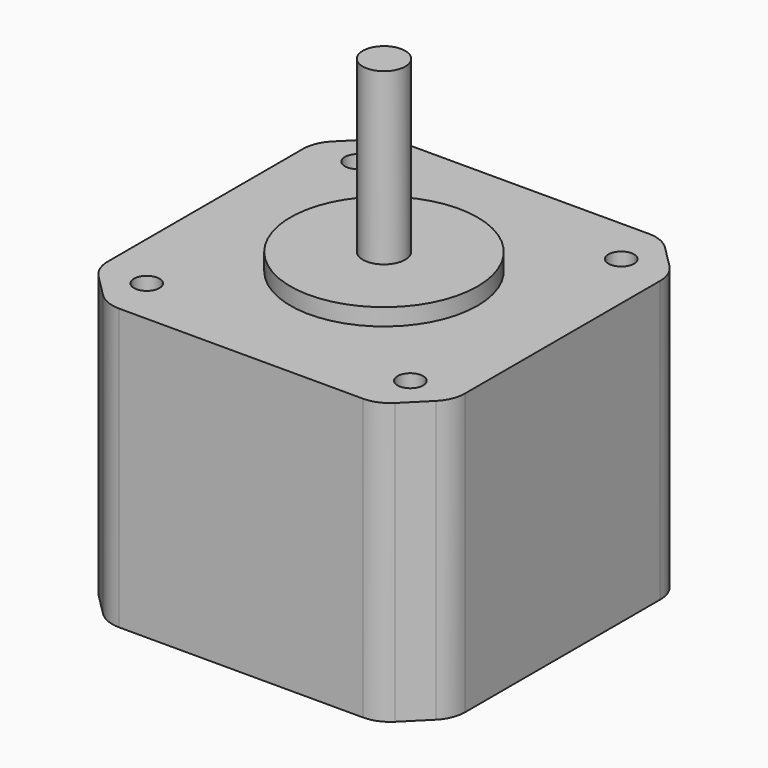
from build123d import *

# Parameters (mm, degrees)
F0_W      = 42
F0_H      = 42
F1_DEPTH  = 33
F2_R      = 11
F3_DEPTH  = 2
F4_R      = 2.5
F5_DEPTH  = 20
F6_R      = 1.5
F7_DEPTH  = 4.5
F8_SIZE   = 5
F9_R      = 4
F10_R     = 1.5
F11_DEPTH = 25


with BuildPart() as f1:
    # F0 (on Top) → F1 (new body)
    with BuildSketch(Plane.XY):
        with Locations((21, -21)):
            Rectangle(F0_W, F0_H)
    extrude(amount=F1_DEPTH)

    # F2 (on face) → F3 (join)
    with BuildSketch(Plane.XY.offset(33)):
        with Locations((21, -21)):
            Circle(F2_R)
    extrude(amount=F3_DEPTH)

    # F4 (on face) → F5 (join)
    with BuildSketch(Plane.XY.offset(35)):
        with Locations((21, -21)):
            Circle(F4_R)
    extrude(amount=F5_DEPTH)

    # F6 (on face) → F7 (cut)
    with BuildSketch(Plane.XY.offset(33)):
        with Locations((5.5, -5.5)):
            Circle(F6_R)
        with Locations((36.5, -5.5)):
            Circle(F6_R)
        with Locations((36.5, -36.5)):
            Circle(F6_R)
        with Locations((5.5, -36.5)):
            Circle(F6_R)
    extrude(amount=-F7_DEPTH, mode=Mode.SUBTRACT)

    # F8
    f8_edges = [f1.edges().sort_by_distance(p)[0] for p in [
        (42, 0, 16.5),
        (42, -42, 16.5),
        (0, -42, 16.5),
        (0, 0, 16.5),
    ]]
    chamfer(f8_edges, length=F8_SIZE)

    # F9
    f9_edges = [f1.edges().sort_by_distance(p)[0] for p in [
        (0, -5, 16.5),
        (5, 0, 16.5),
        (0, -37, 16.5),
        (5, -42, 16.5),
        (37, -42, 16.5),
        (42, -37, 16.5),
        (37, 0, 16.5),
        (42, -5, 16.5),
    ]]
    fillet(f9_edges, radius=F9_R)

    # F10 (on face) → F11 (cut)
    with BuildSketch(Plane(origin=(0, 0, 0), x_dir=(1, 0, 0), z_dir=(0, 0, -1))):
        with Locations((36.5, 36.5)):
            Circle(F10_R)
        with Locations((5.5, 36.5)):
            Circle(F10_R)
        with Locations((5.5, 5.5)):
            Circle(F10_R)
        with Locations((36.5, 5.5)):
            Circle(F10_R)
    extrude(amount=-F11_DEPTH, mode=Mode.SUBTRACT)


solid = f1.part
